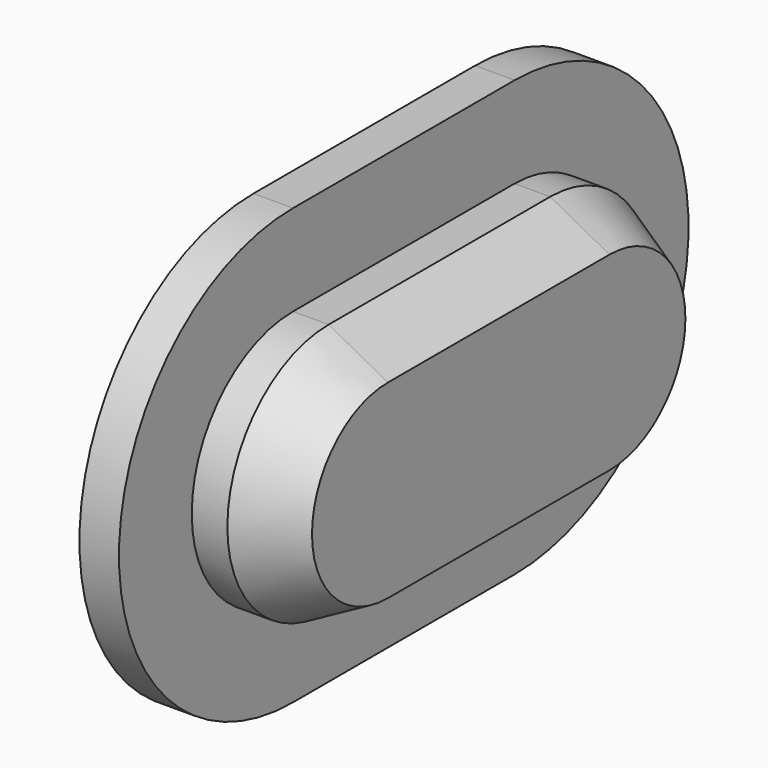
from build123d import *

# Parameters (mm, degrees)
EXTRUDE008_DEPTH = 1
EXTRUDE007_DEPTH = 2.4
CHAMFER004_SIZE2 = 0.8
CHAMFER004_SIZE  = 1.5


with BuildPart() as extrude008:
    # Sketch009 (on Sketch) → Extrude008 (new body)
    with BuildSketch(Plane(origin=(-47.25, 0, 0), x_dir=(0, -1, 0), z_dir=(-1, 0, 0))):
        with BuildLine():
            ThreePointArc((0.75, 12.5), (-4.75, 7), (0.75, 1.5))
            Line((0.75, 1.5), (7.75, 1.5))
            ThreePointArc((7.75, 1.5), (13.25, 7), (7.75, 12.5))
            Line((7.75, 12.5), (0.75, 12.5))
        make_face()
    extrude(amount=EXTRUDE008_DEPTH)


with BuildPart() as deckel_usb:
    # Sketch008 (on Sketch) → Extrude007 (new body)
    with BuildSketch(Plane(origin=(-47.25, 0, 0), x_dir=(0, -1, 0), z_dir=(-1, 0, 0))):
        with BuildLine():
            ThreePointArc((0.75, 10.2), (-2.45, 7), (0.75, 3.8))
            Line((0.75, 3.8), (7.75, 3.8))
            ThreePointArc((7.75, 3.8), (10.95, 7), (7.75, 10.2))
            Line((7.75, 10.2), (0.75, 10.2))
        make_face()
    extrude(amount=-EXTRUDE007_DEPTH)

    # Chamfer004
    chamfer004_edges = [deckel_usb.edges().sort_by_distance(p)[0] for p in [
        (-44.85, -4.25, 3.8),
    ]]
    chamfer004_side = deckel_usb.faces().sort_by_distance((-46.05, -4.25, 3.8))[0]
    chamfer(chamfer004_edges, length=CHAMFER004_SIZE, length2=CHAMFER004_SIZE2, reference=chamfer004_side)

    # Connect001: union Extrude008
    add(extrude008.part)


solid = deckel_usb.part
